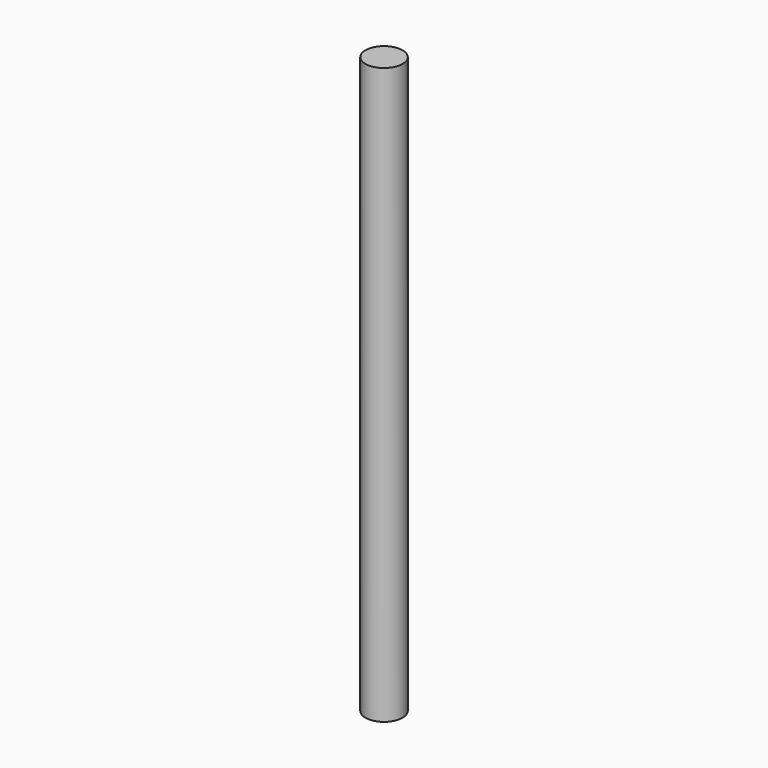
from build123d import *

# Parameters (mm, degrees)
F0_R     = 63.623794
F1_DEPTH = 1500
F2_R     = 63.623794
F3_DEPTH = 1972.647309


with BuildPart() as f1:
    # F0 (on Top) → F1 (new body)
    with BuildSketch(Plane.XY):
        Circle(F0_R)
    extrude(amount=F1_DEPTH)

    # F2 (on face) → F3 (join)
    with BuildSketch(Plane.XY.offset(1500)):
        Circle(F2_R)
    extrude(amount=-F3_DEPTH)


solid = f1.part
